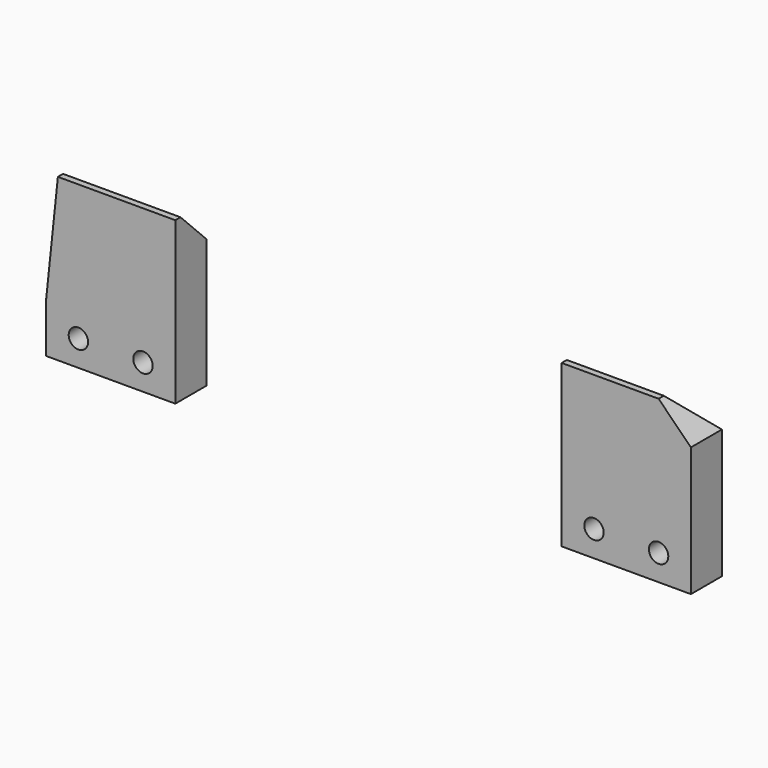
from build123d import *

# Parameters (mm, degrees)
PAD008_DEPTH      = 10
CYLINDER064_R     = 1.5
CYLINDER064_DEPTH = 10
CYLINDER063_R     = 1.5
CYLINDER063_DEPTH = 10
BOX065_W          = 20
BOX065_H          = 6
BOX065_DEPTH      = 25
CHAMFER007_SIZE   = 5
CYLINDER062_R     = 1.5
CYLINDER062_DEPTH = 10
CYLINDER060_R     = 1.5
CYLINDER060_DEPTH = 10
BOX064_W          = 20
BOX064_H          = 6
BOX064_DEPTH      = 25
CHAMFER_SIZE      = 5


with BuildPart() as body006:
    # Sketch012 → Pad008 (new body)
    with BuildSketch(Plane.XZ):
        Polygon((0, 0), (2.01, 0), (21.358546, 184.089119), (19.348546, 184.089119), align=None)
    extrude(amount=-PAD008_DEPTH)


with BuildPart() as body006_1:
    # Body006 placement: moved
    add(body006.part.moved(Location((0, 0, -162))))


with BuildPart() as cylinder039:
    # Cylinder064 → Cylinder064 (new body)
    with BuildSketch(Plane(origin=(5, 10, 4), x_dir=(1, 0, 0), z_dir=(0, -1, 0))):
        Circle(CYLINDER064_R)
    extrude(amount=CYLINDER064_DEPTH)


with BuildPart() as fusion031:
    # Cylinder063 → Cylinder063 (new body)
    with BuildSketch(Plane(origin=(15, 10, 4), x_dir=(1, 0, 0), z_dir=(0, -1, 0))):
        Circle(CYLINDER063_R)
    extrude(amount=CYLINDER063_DEPTH)

    # Fusion031: union Cylinder039
    add(cylinder039.part)


with BuildPart() as obj1:
    # Box065 → Box065 (new body)
    with BuildSketch(Plane(origin=(0, 3, 0), x_dir=(1, 0, 0), z_dir=(0, 0, 1))):
        with Locations((10, 3)):
            Rectangle(BOX065_W, BOX065_H)
    extrude(amount=BOX065_DEPTH)

    # Cut060: cut Fusion031
    add(fusion031.part, mode=Mode.SUBTRACT)


with BuildPart() as obj1_1:
    # Cut060 placement: moved
    add(obj1.part.moved(Location((17, 0, -27))))

    # Chamfer007
    chamfer007_edges = [obj1_1.edges().sort_by_distance(p)[0] for p in [
        (27, 3, -2),
    ]]
    chamfer(chamfer007_edges, length=CHAMFER007_SIZE)

    # Cut061: cut Body006
    add(body006_1.part, mode=Mode.SUBTRACT)


with BuildPart() as obj1_2:
    # Cut061 placement: moved
    add(obj1_1.part.moved(Location((0.2, -0.8, 0))))


with BuildPart() as part_mirroring005:
    # Part__Mirroring005: instance of obj1
    add(obj1_2.part.mirror(Plane(origin=(0, 0, 0), x_dir=(1, 0, 0), z_dir=(0, 1, 0))))


with BuildPart() as part_mirroring005_1:
    # Part__Mirroring005 placement: moved
    add(part_mirroring005.part.moved(Location((0, 110, 0))))


with BuildPart() as cylinder037:
    # Cylinder062 → Cylinder062 (new body)
    with BuildSketch(Plane(origin=(5, 10, 4), x_dir=(1, 0, 0), z_dir=(0, -1, 0))):
        Circle(CYLINDER062_R)
    extrude(amount=CYLINDER062_DEPTH)


with BuildPart() as fusion030:
    # Cylinder060 → Cylinder060 (new body)
    with BuildSketch(Plane(origin=(15, 10, 4), x_dir=(1, 0, 0), z_dir=(0, -1, 0))):
        Circle(CYLINDER060_R)
    extrude(amount=CYLINDER060_DEPTH)

    # Fusion030: union Cylinder037
    add(cylinder037.part)


with BuildPart() as obj2:
    # Box064 → Box064 (new body)
    with BuildSketch(Plane(origin=(0, 3, 0), x_dir=(1, 0, 0), z_dir=(0, 0, 1))):
        with Locations((10, 3)):
            Rectangle(BOX064_W, BOX064_H)
    extrude(amount=BOX064_DEPTH)

    # Cut059: cut Fusion030
    add(fusion030.part, mode=Mode.SUBTRACT)

    # Chamfer
    chamfer_edges = [obj2.edges().sort_by_distance(p)[0] for p in [
        (10, 3, 25),
        (20, 6, 25),
    ]]
    chamfer(chamfer_edges, length=CHAMFER_SIZE)


with BuildPart() as obj2_1:
    # Chamfer placement: moved
    add(obj2.part.moved(Location((97, -0.8, -27))))


with BuildPart() as obj3:
    # Part__Mirroring004: instance of obj2
    add(obj2_1.part.mirror(Plane(origin=(0, 0, 0), x_dir=(1, 0, 0), z_dir=(0, 1, 0))))


with BuildPart() as obj3_1:
    # Part__Mirroring004 placement: moved
    add(obj3.part.moved(Location((0, 110, 0))))

    # Fusion032: union Part__Mirroring005
    add(part_mirroring005_1.part)


solid = obj3_1.part
